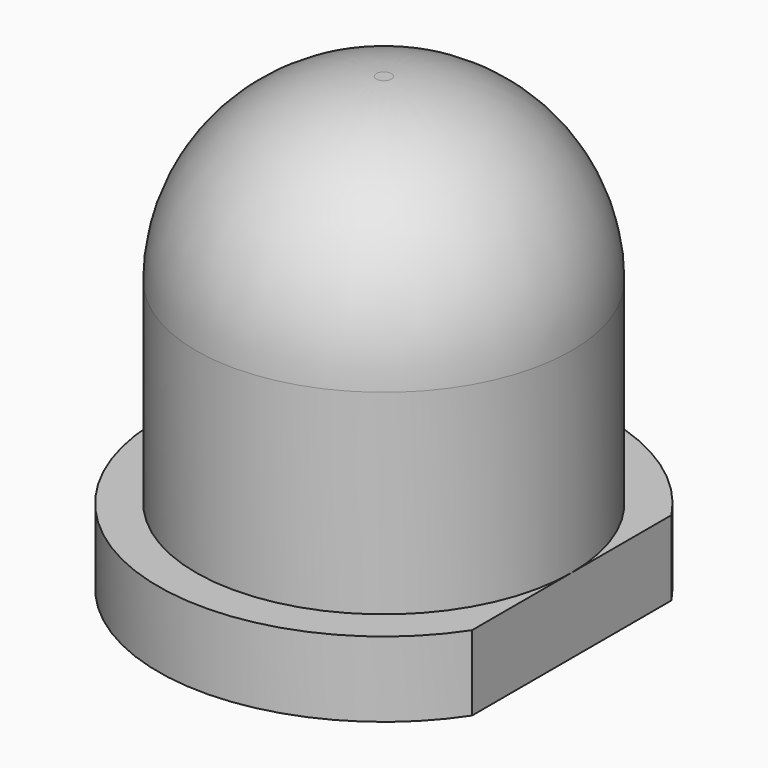
from build123d import *

# Parameters (mm, degrees)
EXTRUDE_SKETCH001_DEPTH = 1
SKETCH002_R             = 2.5
EXTRUDE_SKETCH002_DEPTH = 5
FILLET_R                = 2.4


with BuildPart() as sketch001_extrude:
    # Sketch001 → Extrude_Sketch001 (new body)
    with BuildSketch(Plane.XY):
        with BuildLine():
            ThreePointArc((2.5, 1.658312), (-3, 0), (2.5, -1.658312))
            Line((2.5, 1.658312), (2.5, -1.658312))
        make_face()
    extrude(amount=EXTRUDE_SKETCH001_DEPTH)


with BuildPart() as fusion:
    # Sketch002 → Extrude_Sketch002 (new body)
    with BuildSketch(Plane.XY.offset(1)):
        Circle(SKETCH002_R)
    extrude(amount=EXTRUDE_SKETCH002_DEPTH)

    # Fillet
    fillet_edges = [fusion.edges().sort_by_distance(p)[0] for p in [
        (-2.5, 0, 6),
    ]]
    fillet(fillet_edges, radius=FILLET_R)

    # Fusion: union Sketch001_Extrude
    add(sketch001_extrude.part)


solid = fusion.part
